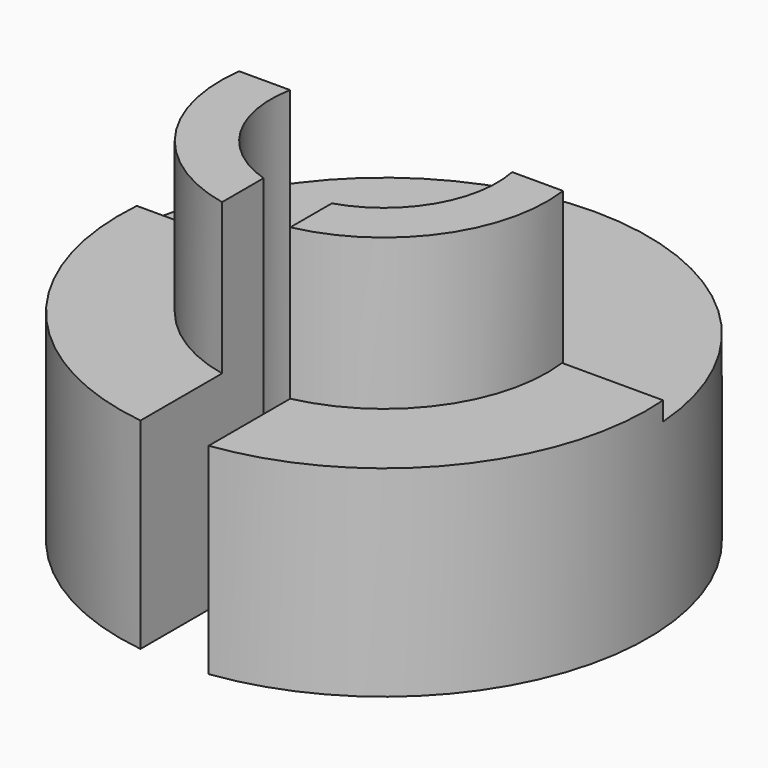
from build123d import *

# Parameters (mm, degrees)
F0_R      = 10.5
F1_DEPTH  = 14
F2_R      = 10.5
F2_R_2    = 6.5
F3_DEPTH  = 6
F4_R      = 4.5
F5_DEPTH  = 14.001
F6_W      = 2.713612
F6_H      = 7.583218
F7_DEPTH  = 14.001
F9_DEPTH  = 6.75
F10_W     = 22.774708
F10_H     = 11.08392
F11_DEPTH = 6.75


with BuildPart() as f1:
    # F0 (on Top) → F1 (new body)
    with BuildSketch(Plane.XY):
        Circle(F0_R)
    extrude(amount=F1_DEPTH)

    # F2 (on face) → F3 (cut)
    with BuildSketch(Plane.XY.offset(14)):
        Circle(F2_R)
        Circle(F2_R_2, mode=Mode.SUBTRACT)
    extrude(amount=-F3_DEPTH, mode=Mode.SUBTRACT)

    # F4 (on face) → F5 (cut, through all)
    with BuildSketch(Plane.XY.offset(14)):
        Circle(F4_R)
    extrude(amount=-F5_DEPTH, mode=Mode.SUBTRACT)

    # F6 (on Top) → F7 (cut, through all)
    with BuildSketch(Plane.XY):
        with Locations((0, -7.369267)):
            Rectangle(F6_W, F6_H)
    extrude(amount=F7_DEPTH, mode=Mode.SUBTRACT)

    # F8 (on face) → F9 (cut)
    with BuildSketch(Plane.XY.offset(14)):
        with BuildLine():
            ThreePointArc((10.981682, 0.794768), (0, 11.010404), (-10.981682, 0.794768))
            Line((-10.981682, 0.794768), (-6.469861, 0.794768))
            ThreePointArc((-6.469861, 0.794768), (0, 6.518493), (6.469861, 0.794768))
            Line((6.469861, 0.794768), (10.981682, 0.794768))
        make_face()
    extrude(amount=-F9_DEPTH, mode=Mode.SUBTRACT)

    # F10 (on face) → F11 (cut)
    with BuildSketch(Plane.XY.offset(14)):
        with Locations((-0.604641, 6.395375)):
            Rectangle(F10_W, F10_H)
    extrude(amount=-F11_DEPTH, mode=Mode.SUBTRACT)


solid = f1.part
